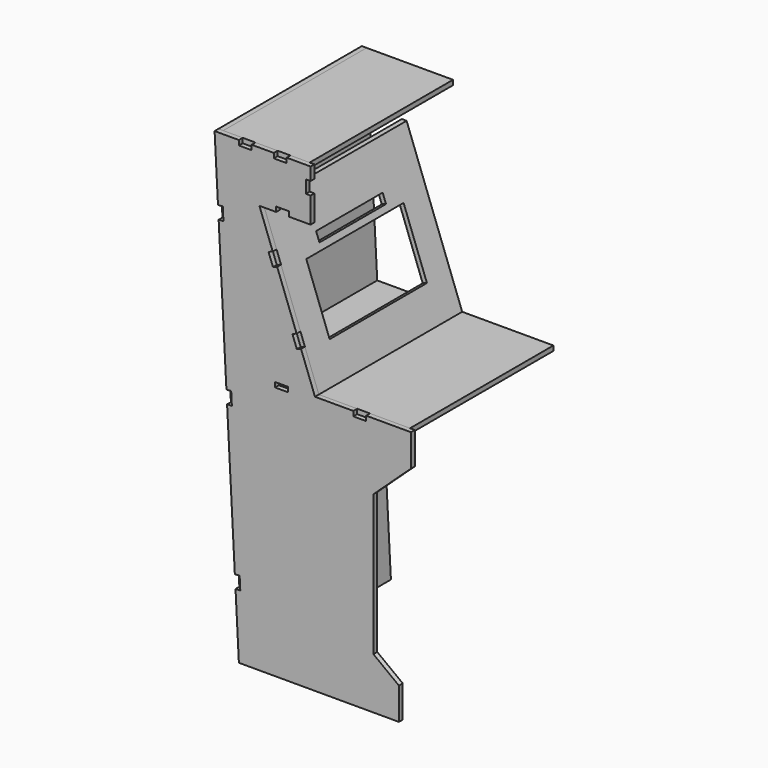
from build123d import *

# Parameters (mm, degrees)
F2_DEPTH  = 19.05
F3_W      = 50.8
F3_H      = 19.05
F3_W_2    = 19.05
F3_H_2    = 50.8
F4_DEPTH  = 19.05
F6_DEPTH  = 711.2
F7_W      = 12.7
F7_H      = 101.6
F8_DEPTH  = 19.05
F10_DEPTH = 711.2
F11_W     = 101.6
F11_H     = 127
F12_DEPTH = 19.0235155119
F14_DEPTH = 101.6
F16_DEPTH = 711.2
F18_DEPTH = 711.2
F19_W     = 482.6
F19_H     = 266.7
F19_W_2   = 330.2
F19_H_2   = 38.1
F20_DEPTH = 17.864127403


with BuildPart() as f2:
    # F1 (on face) → F2 (new body)
    with BuildSketch(Plane.XZ):
        Polygon((37.0856592504, 1373.1727089956), (37.0856592504, 1576.3727089956), (-166.1143407496, 1576.3727089956), (-343.9143407496, 1576.3727089956), (-247.5140121902, -249.8847801481), (387.4859878098, -249.8847801481), (387.4859878098, -122.8847801481), (286.3054851186, -46.1286346276), (286.3054851186, 512.6713653724), (435.4290591833, 650.7017955615), (435.4290591833, 736.0118588999), (435.4290591833, 777.7017955615), (54.4290591833, 777.7017955615), (-166.1143407496, 1373.1727089956), align=None)
    extrude(amount=F2_DEPTH)

    # F3 (on face) → F4 (cut, through all)
    with BuildSketch(Plane.XZ):
        with Locations((232.2290591833, 768.1767955615)):
            Rectangle(F3_W, F3_H)
        with Locations((-78.4855475583, 768.1767955615)):
            Rectangle(F3_W, F3_H)
        Polygon((-278.0422529634, 689.6121515597), (-297.0530699221, 688.6086517729), (-294.3752830177, 637.8792770745), (-275.36519378, 638.8824594688), align=None)
        Polygon((-0.7992807969, 926.8192484775), (-18.4427527915, 974.4569215522), (-35.1948287952, 968.2524878604), (-17.5513568006, 920.6148147857), align=None)
        Polygon((-95.540452771, 1182.6220166967), (-113.1839247657, 1230.2596897714), (-129.9360007694, 1224.0552560796), (-112.2925287748, 1176.4175830049), align=None)
        Polygon((-311.5053092422, 1323.7298251432), (-330.5254062274, 1322.7258355034), (-327.847619323, 1271.996460805), (-308.8282500516, 1273.0001329164), align=None)
        with Locations((-74.0393407496, 1382.6977089956)):
            Rectangle(F3_W, F3_H)
        with Locations((27.5606592504, 1500.1727089956)):
            Rectangle(F3_W_2, F3_H_2)
        with Locations((-83.5643407496, 1566.8477089956)):
            Rectangle(F3_W, F3_H)
        with Locations((-222.2322512977, 1566.8477089956)):
            Rectangle(F3_W, F3_H)
        Polygon((-244.5791966847, 55.4944779763), (-263.5807336168, 54.4914680425), (-260.9029467124, 3.762093344), (-241.9021521824, 4.7650640897), align=None)
    extrude(amount=F4_DEPTH, mode=Mode.SUBTRACT)


with BuildPart() as f6:
    # F5 (on face) → F6 (new body)
    with BuildSketch(Plane.XZ):
        Polygon((416.3790591833, 758.6517955615), (416.3790591833, 777.7017955615), (54.4290591833, 777.7017955615), (-282.7059162538, 777.7017955615), (-281.7003481617, 758.6517955615), align=None)
    extrude(amount=-F6_DEPTH)

    # F7 (on face) → F8 (cut, through all)
    with BuildSketch(Plane.XY.offset(777.7017955615)):
        with Locations((-276.3559162538, 50.8)):
            Rectangle(F7_W, F7_H)
    extrude(amount=-F8_DEPTH, mode=Mode.SUBTRACT)


with BuildPart() as f10:
    # F9 (on face) → F10 (new body)
    with BuildSketch(Plane.XZ):
        Polygon((-324.8643407496, 1576.3727089956), (-343.9143407496, 1576.3727089956), (-247.5140121902, -249.8847801481), (-228.4640121902, -249.8847801481), align=None)
    extrude(amount=-F10_DEPTH)

    # F11 (on face) → F12 (cut, through all)
    with BuildSketch(Plane(origin=(-240.9829032815, 0, -12.7204576527), x_dir=(0, 1, 0), z_dir=(0.9986097382, 0, 0.0527123406))):
        with Locations((50.8, 835.9461556291)):
            Rectangle(F11_W, F11_H)
    extrude(amount=-F12_DEPTH, mode=Mode.SUBTRACT)


with BuildPart() as f14:
    # F13 (on face) → F14 (new body, through all)
    with BuildSketch(Plane.XZ.offset(-101.6)):
        Polygon((-282.7568129958, 778.666009663), (-288.3948154228, 885.4752323076), (-288.3948154228, 884.4724582764), (-307.3394434827, 884.4724582764), (-301.7543718562, 777.672537698), align=None)
    extrude(amount=F14_DEPTH)


with BuildPart() as f16:
    # F15 (on face) → F16 (new body)
    with BuildSketch(Plane.XZ):
        Polygon((18.0356592504, 1576.3727089956), (-166.1143407496, 1576.3727089956), (-324.8643407496, 1576.3727089956), (-323.8587726574, 1557.3227089956), (18.0356592504, 1557.3227089956), align=None)
    extrude(amount=-F16_DEPTH)


with BuildPart() as f18:
    # F17 (on face) → F18 (new body)
    with BuildSketch(Plane.XZ):
        Polygon((35.3790591833, 777.7017955615), (54.4290591833, 777.7017955615), (-166.1143407496, 1373.1727089956), (-185.1643407496, 1373.1727089956), align=None)
    extrude(amount=-F18_DEPTH)

    # F19 (on face) → F20 (cut, through all)
    with BuildSketch(Plane(origin=(301.1548009874, 0, 111.5381158297), x_dir=(0, 1, 0), z_dir=(0.93774947, 0, 0.3473124408))):
        with Locations((355.6, 983.4355571889)):
            Rectangle(F19_W, F19_H)
        with Locations((355.6, 1161.2355571889)):
            Rectangle(F19_W_2, F19_H_2)
    extrude(amount=-F20_DEPTH, mode=Mode.SUBTRACT)


solid = Compound([f2.part, f6.part, f10.part, f14.part, f16.part, f18.part])
